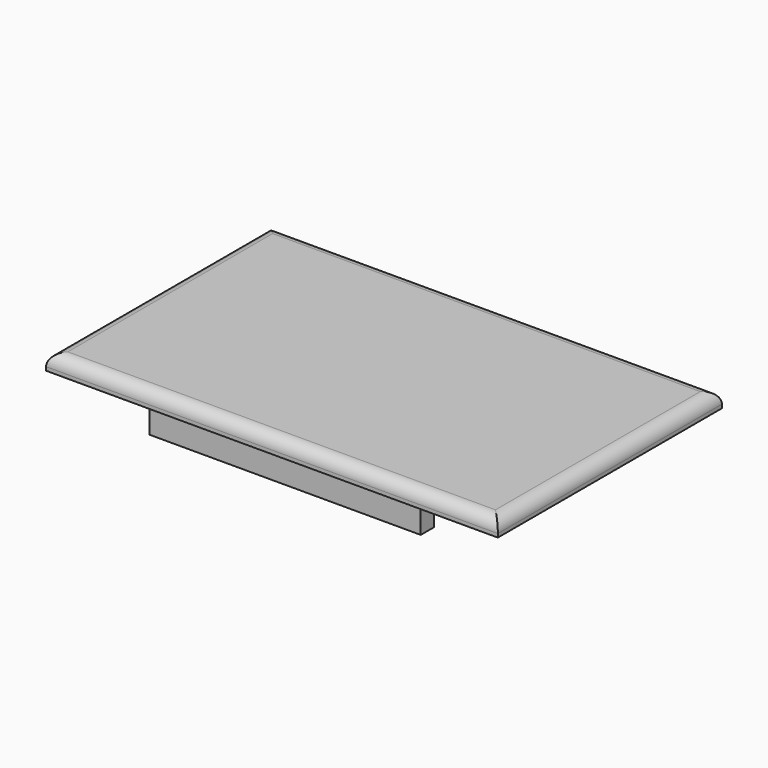
from build123d import *

# Parameters (mm, degrees)
F0_W     = 75
F0_H     = 46.5
F0_W_2   = 1.5
F0_H_2   = 26.009672
F0_W_3   = 45
F0_H_3   = 2.8
F0_H_4   = 35.4
F1_DEPTH = 2.6
F2_DEPTH = 5.6
F3_DEPTH = 0.5
F4_R     = 2


with BuildPart() as f1:
    # F0 (on Top) → F1 (new body)
    with BuildSketch(Plane.XY):
        Rectangle(F0_W, F0_H)
        with Locations((-31.25, -0.976509)):
            Rectangle(F0_W_2, F0_H_2, mode=Mode.SUBTRACT)
        with Locations((31.25, -0.976509)):
            Rectangle(F0_W_2, F0_H_2, mode=Mode.SUBTRACT)
        Polygon((-22.5, 20.5), (22.5, 20.5), (22.5, 17.7), (22.5, -17.7), (22.5, -20.5), (-22.5, -20.5), (-22.5, -17.7), (-22.5, 17.7), align=None, mode=Mode.SUBTRACT)
        with Locations((-31.25, -0.976509)):
            Rectangle(F0_W_2, F0_H_2)
        with Locations((0, 19.1)):
            Rectangle(F0_W_3, F0_H_3)
        Rectangle(F0_W_3, F0_H_4)
        with Locations((0, -19.1)):
            Rectangle(F0_W_3, F0_H_3)
        with Locations((31.25, -0.976509)):
            Rectangle(F0_W_2, F0_H_2)
    extrude(amount=F1_DEPTH)

    # F4
    f4_edges = [f1.edges().sort_by_distance(p)[0] for p in [
        (37.5, 0, 2.6),
        (0, -23.25, 2.6),
        (0, 23.25, 2.6),
        (-37.5, 0, 2.6),
    ]]
    fillet(f4_edges, radius=F4_R)


with BuildPart() as f2:
    # F0 (on Top) → F2 (new body)
    with BuildSketch(Plane.XY):
        with Locations((0, -19.1)):
            Rectangle(F0_W_3, F0_H_3)
        with Locations((0, 19.1)):
            Rectangle(F0_W_3, F0_H_3)
    extrude(amount=-F2_DEPTH)


with BuildPart() as f3:
    # F0 (on Top) → F3 (new body)
    with BuildSketch(Plane.XY):
        with Locations((-31.25, -0.976509)):
            Rectangle(F0_W_2, F0_H_2)
        with Locations((31.25, -0.976509)):
            Rectangle(F0_W_2, F0_H_2)
    extrude(amount=-F3_DEPTH)


solid = Compound([f1.part, f2.part, f3.part])
